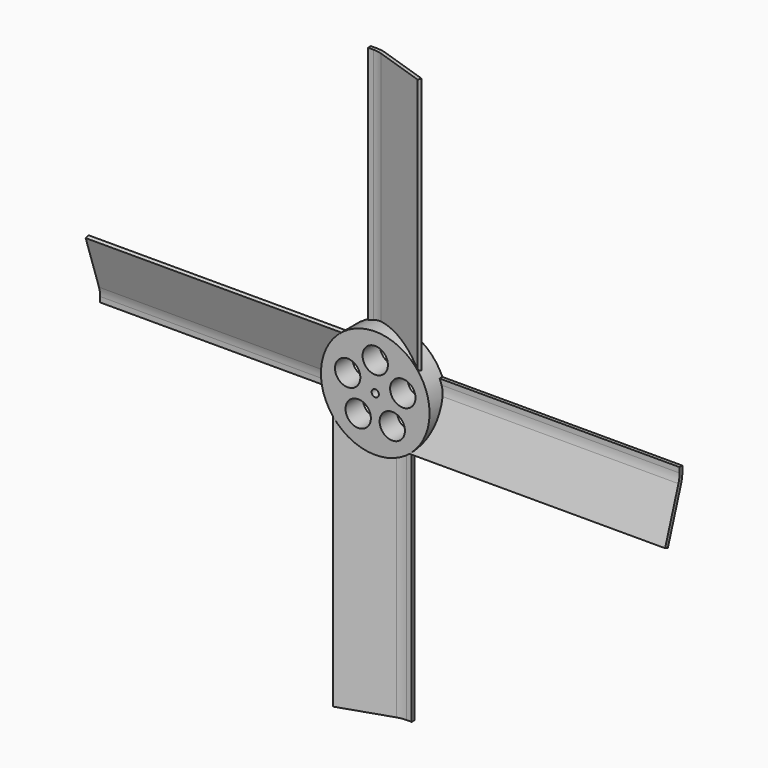
from build123d import *

# Parameters (mm, degrees)
F1_DEPTH  = 80
F2_R      = 7.644408
F4_COUNT  = 4
F5_R      = 15
F6_DEPTH  = 6
F7_R      = 3.5
F7_R_2    = 1
F8_DEPTH  = 25
F10_DEPTH = 1


with BuildPart() as f1:
    # F0 (on Top) → F1 (new body)
    with BuildSketch(Plane.XY):
        Polygon((11.683772, -5.948683), (12, -5), (-3, 0), (-3.316228, -0.948683), align=None)
        Polygon((-3.316228, -0.948683), (-3, 0), (-6, 0), (-6, -0.948683), align=None)
    extrude(amount=-F1_DEPTH)

    # F2
    f2_edges = [f1.edges().sort_by_distance(p)[0] for p in [
        (-3.316228, -0.948683, -40),
        (-3, 0, -40),
    ]]
    fillet(f2_edges, radius=F2_R)



with BuildPart() as f4_1:
    # F4: instance of F1
    add(f1.part.rotate(Axis((0, 13.525062, 0), (0, 1, 0)), 1 * 360 / F4_COUNT))


with BuildPart() as f4_2:
    # F4: instance of F1
    add(f1.part.rotate(Axis((0, 13.525062, 0), (0, 1, 0)), 2 * 360 / F4_COUNT))


with BuildPart() as f4_3:
    # F4: instance of F1
    add(f1.part.rotate(Axis((0, 13.525062, 0), (0, 1, 0)), 3 * 360 / F4_COUNT))


with BuildPart() as f1_1:
    add(f1.part)

    add(f4_1.part)  # F6 merges F4_1

    add(f4_2.part)  # F6 merges F4_2

    add(f4_3.part)  # F6 merges F4_3
    # F5 (on Front) → F6 (join)
    with BuildSketch(Plane.XZ):
        Circle(F5_R)
    extrude(amount=F6_DEPTH)

    # F7 (on face) → F8 (cut)
    with BuildSketch(Plane(origin=(0, 0, 0), x_dir=(-1, 0, 0), z_dir=(0, 1, 0))):
        with Locations((-4.702282, 6.472136)):
            Circle(F7_R)
        with Locations((-7.608452, -2.472136)):
            Circle(F7_R)
        with Locations((0, -8)):
            Circle(F7_R)
        with Locations((7.608452, -2.472136)):
            Circle(F7_R)
        with Locations((4.702282, 6.472136)):
            Circle(F7_R)
        Circle(F7_R_2)
    extrude(amount=-F8_DEPTH, mode=Mode.SUBTRACT)

    # F9 (on face) → F10 (cut)
    with BuildSketch(Plane(origin=(0, 0, 0), x_dir=(-1, 0, 0), z_dir=(0, 1, 0))):
        with BuildLine():
            ThreePointArc((5.158171, -12.103592), (-1.067262, -13.113528), (-7.047458, -11.110221))
            Line((-7.047458, -11.110221), (-7.288358, -11.549476))
            ThreePointArc((-7.288358, -11.549476), (-1.091943, -13.613164), (5.354197, -12.563564))
            Line((5.354197, -12.563564), (5.746248, -13.483508))
            Line((5.746248, -13.483508), (7.096071, -11.549476))
            Line((7.096071, -11.549476), (4.76612, -11.183649))
            Line((4.76612, -11.183649), (5.158171, -12.103592))
        make_face()
        with BuildLine():
            Line((8.803936, 11.71815), (6.454104, 11.920116))
            Line((6.454104, 11.920116), (7.302264, 9.719405))
            Line((7.302264, 9.719405), (7.902933, 10.518903))
            ThreePointArc((7.902933, 10.518903), (11.89028, 5.632489), (13.145463, -0.548167))
            Line((13.145463, -0.548167), (13.646319, -0.537165))
            ThreePointArc((13.646319, -0.537165), (12.335317, 5.860932), (8.203267, 10.918652))
            Line((8.203267, 10.918652), (8.803936, 11.71815))
        make_face()
        with BuildLine():
            Line((-14.550184, 1.765357), (-13.550175, -0.370639))
            Line((-13.550175, -0.370639), (-12.068384, 1.464243))
            Line((-12.068384, 1.464243), (-13.061104, 1.584689))
            ThreePointArc((-13.061104, 1.584689), (-10.823018, 7.48104), (-6.098005, 11.658388))
            Line((-6.098005, 11.658388), (-6.357961, 12.086641))
            ThreePointArc((-6.357961, 12.086641), (-11.243374, 7.752232), (-13.557464, 1.644912))
            Line((-13.557464, 1.644912), (-14.550184, 1.765357))
        make_face()
    extrude(amount=-F10_DEPTH, mode=Mode.SUBTRACT)


with BuildPart() as f11_1:
    # F11: instance of F1
    add(f1_1.part.mirror(Plane.XY))


solid = f11_1.part
